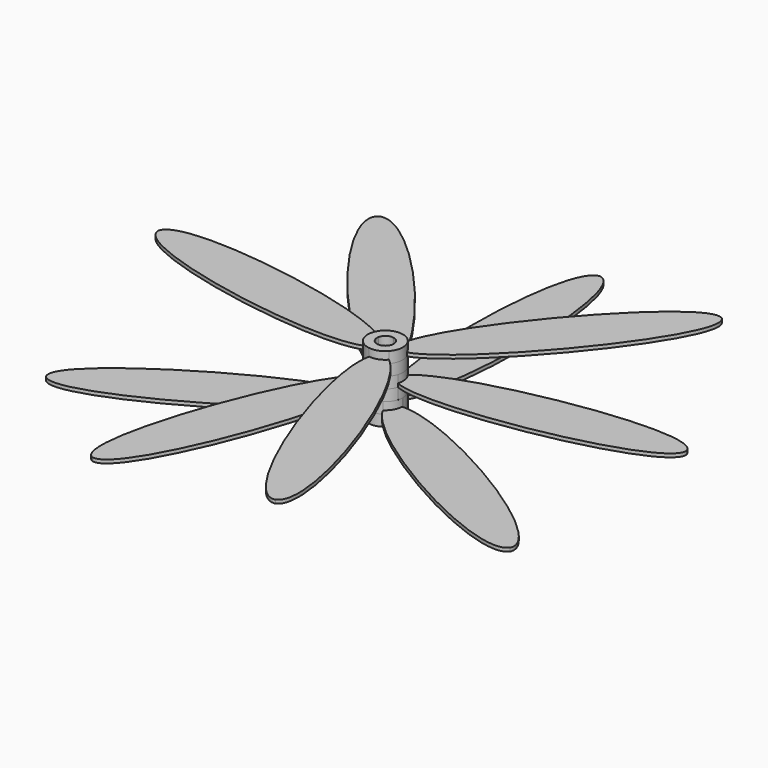
from build123d import *

# Parameters (mm, degrees)
F1_DEPTH = 3.17
F2_DEPTH = 1
F5_ANGLE = 40
F7_ANGLE = 40


with BuildPart() as f1:
    # F0 (on Top) → F1 (new body, symmetric)
    with BuildSketch(Plane.XY):
        with BuildLine():
            ThreePointArc((-2.0622229928, -1.190625), (-2.0622229928, 1.190625), (0, 2.38125))
            add(Edge.make_bspline(
                [(0, 2.38125), (-0.8460921217, 2.6028203744), (-1.6205970555, 3.3127931855), (-2.3235148015, 4.4273331665)],
                knots=[0, 0, 0, 0, 6.2711290442, 6.2711290442, 6.2711290442, 6.2711290442], degree=3))
            ThreePointArc((-2.3235148015, 4.4273331665), (-4.330030436, 2.5001672791), (-4.9959559433, -0.2010577333))
            add(Edge.make_bspline(
                [(-2.0622229928, -1.190625), (-2.6771318103, -0.5686959926), (-3.6792462514, -0.2527991574), (-4.9959559433, -0.2010577333)],
                knots=[0, 0, 0, 0, 6.2708963626, 6.2708963626, 6.2708963626, 6.2708963626], degree=3))
        make_face()
        with BuildLine():
            add(Edge.make_bspline(
                [(-2.0622229928, -1.190625), (-1.8310539221, -2.0341787777), (-2.058775431, -3.0598284904), (-2.6727521005, -4.2256829281)],
                knots=[0, 0, 0, 0, 6.2713618854, 6.2713618854, 6.2713618854, 6.2713618854], degree=3))
            add(Edge.make_bspline(
                [(-2.0622229928, -1.190625), (-2.6771318103, -0.5686959926), (-3.6792462514, -0.2527991574), (-4.9959559433, -0.2010577333)],
                knots=[0, 0, 0, 0, 6.2708963626, 6.2708963626, 6.2708963626, 6.2708963626], degree=3))
            ThreePointArc((-4.9959559433, -0.2010577333), (-4.3303201678, -2.4996654265), (-2.6727521005, -4.2256829281))
        make_face()
        with BuildLine():
            add(Edge.make_bspline(
                [(2.0622229928, -1.190625), (1.8310539221, -2.0341787777), (2.058775431, -3.0598284904), (2.6727521005, -4.2256829281)],
                knots=[0, 0, 0, 0, 6.2713618854, 6.2713618854, 6.2713618854, 6.2713618854], degree=3))
            ThreePointArc((2.0622229928, -1.190625), (0, -2.38125), (-2.0622229928, -1.190625))
            add(Edge.make_bspline(
                [(-2.0622229928, -1.190625), (-1.8310539221, -2.0341787777), (-2.058775431, -3.0598284904), (-2.6727521005, -4.2256829281)],
                knots=[0, 0, 0, 0, 6.2713618854, 6.2713618854, 6.2713618854, 6.2713618854], degree=3))
            ThreePointArc((-2.6727521005, -4.2256829281), (0, -5), (2.6727521005, -4.2256829281))
        make_face()
        with BuildLine():
            add(Edge.make_bspline(
                [(2.0622229928, -1.190625), (2.6771318103, -0.5686959926), (3.6792462514, -0.2527991574), (4.9959559433, -0.2010577333)],
                knots=[0, 0, 0, 0, 6.2708963626, 6.2708963626, 6.2708963626, 6.2708963626], degree=3))
            add(Edge.make_bspline(
                [(2.0622229928, -1.190625), (1.8310539221, -2.0341787777), (2.058775431, -3.0598284904), (2.6727521005, -4.2256829281)],
                knots=[0, 0, 0, 0, 6.2713618854, 6.2713618854, 6.2713618854, 6.2713618854], degree=3))
            ThreePointArc((2.6727521005, -4.2256829281), (4.3303201678, -2.4996654265), (4.9959559433, -0.2010577333))
        make_face()
        with BuildLine():
            ThreePointArc((0, 2.38125), (1.6837980227, 1.6837980227), (2.38125, 0))
            ThreePointArc((2.38125, 0), (2.3001108739, -0.6163128512), (2.0622229928, -1.190625))
            add(Edge.make_bspline(
                [(2.0622229928, -1.190625), (2.6771318103, -0.5686959926), (3.6792462514, -0.2527991574), (4.9959559433, -0.2010577333)],
                knots=[0, 0, 0, 0, 6.2708963626, 6.2708963626, 6.2708963626, 6.2708963626], degree=3))
            ThreePointArc((4.9959559433, -0.2010577333), (4.9989888836, -0.1005492), (5, 0))
            ThreePointArc((5, 0), (4.278876839, 2.5867379064), (2.3235148015, 4.4273331665))
            add(Edge.make_bspline(
                [(0, 2.38125), (0.8460921217, 2.6028203744), (1.6205970555, 3.3127931855), (2.3235148015, 4.4273331665)],
                knots=[0, 0, 0, 0, 6.2711290442, 6.2711290442, 6.2711290442, 6.2711290442], degree=3))
        make_face()
        with BuildLine():
            add(Edge.make_bspline(
                [(0, 2.38125), (-0.8460921217, 2.6028203744), (-1.6205970555, 3.3127931855), (-2.3235148015, 4.4273331665)],
                knots=[0, 0, 0, 0, 6.2711290442, 6.2711290442, 6.2711290442, 6.2711290442], degree=3))
            add(Edge.make_bspline(
                [(0, 2.38125), (0.8460921217, 2.6028203744), (1.6205970555, 3.3127931855), (2.3235148015, 4.4273331665)],
                knots=[0, 0, 0, 0, 6.2711290442, 6.2711290442, 6.2711290442, 6.2711290442], degree=3))
            ThreePointArc((2.3235148015, 4.4273331665), (0, 5), (-2.3235148015, 4.4273331665))
        make_face()
    extrude(amount=F1_DEPTH, both=True)

    # F0 (on Top) → F2 (join)
    with BuildSketch(Plane.XY):
        with BuildLine():
            ThreePointArc((-2.6727521005, -4.2256829281), (-4.3303201678, -2.4996654265), (-4.9959559433, -0.2010577333))
            add(Edge.make_bspline(
                [(-4.9959559433, -0.2010577333), (-19.2420734514, 0.3587577008), (-70.3150892316, -30.0037768561), (-66.2509433895, -38.25)],
                knots=[6.2708963626, 6.2708963626, 6.2708963626, 6.2708963626, 74.11875, 74.11875, 74.11875, 74.11875], degree=3))
            add(Edge.make_bspline(
                [(-2.6727521005, -4.2256829281), (-9.315123271, -16.838601775), (-61.1656550704, -45.8613925812), (-66.2509433895, -38.25)],
                knots=[6.2713618854, 6.2713618854, 6.2713618854, 6.2713618854, 74.11875, 74.11875, 74.11875, 74.11875], degree=3))
        make_face()
        with BuildLine():
            add(Edge.make_bspline(
                [(4.9959559433, -0.2010577333), (19.2420734514, 0.3587577008), (70.3150892316, -30.0037768561), (66.2509433895, -38.25)],
                knots=[6.2708963626, 6.2708963626, 6.2708963626, 6.2708963626, 74.11875, 74.11875, 74.11875, 74.11875], degree=3))
            ThreePointArc((4.9959559433, -0.2010577333), (4.3303201678, -2.4996654265), (2.6727521005, -4.2256829281))
            add(Edge.make_bspline(
                [(2.6727521005, -4.2256829281), (9.315123271, -16.838601775), (61.1656550704, -45.8613925812), (66.2509433895, -38.25)],
                knots=[6.2713618854, 6.2713618854, 6.2713618854, 6.2713618854, 74.11875, 74.11875, 74.11875, 74.11875], degree=3))
        make_face()
        with BuildLine():
            add(Edge.make_bspline(
                [(-2.3235148015, 4.4273331665), (-9.9284128122, 16.4855902427), (-9.1539078783, 75.8991274634), (0, 76.5)],
                knots=[6.2711290442, 6.2711290442, 6.2711290442, 6.2711290442, 74.11875, 74.11875, 74.11875, 74.11875], degree=3))
            ThreePointArc((-2.3235148015, 4.4273331665), (0, 5), (2.3235148015, 4.4273331665))
            add(Edge.make_bspline(
                [(2.3235148015, 4.4273331665), (9.9284128122, 16.4855902427), (9.1539078783, 75.8991274634), (0, 76.5)],
                knots=[6.2711290442, 6.2711290442, 6.2711290442, 6.2711290442, 74.11875, 74.11875, 74.11875, 74.11875], degree=3))
        make_face()
    extrude(amount=F2_DEPTH)


with BuildPart() as f3_1:
    # F3: copy of F1
    add(f1.part.moved(Location((0, 0, 6.35))))


with BuildPart() as f3_1_1:
    # F5: moved
    add(f3_1.part.rotate(Axis((0, 0, 16.4103526622), (0, 0, 1)), F5_ANGLE))


with BuildPart() as f6_1:
    # F6: copy of F3_1
    add(f3_1_1.part.moved(Location((0, 0, 6.34))))


with BuildPart() as f6_1_1:
    # F7: moved
    add(f6_1.part.rotate(Axis((0, 0, 16.4103526622), (0, 0, 1)), F7_ANGLE))


solid = Compound([f1.part, f3_1_1.part, f6_1_1.part])
